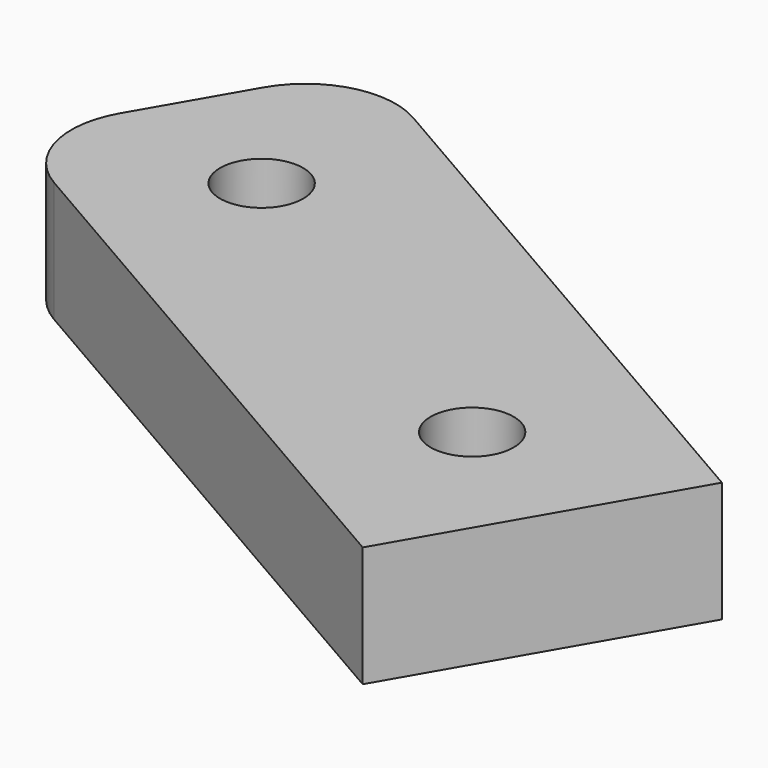
from build123d import *

# Parameters (mm, degrees)
CYLINDER063_R          = 1.38
CYLINDER063_DEPTH      = 10
CYLINDER062_R          = 1.38
CYLINDER062_DEPTH      = 10
BOX037_W               = 25
BOX037_H               = 10
BOX037_DEPTH           = 4
CUT035_PLACEMENT_ANGLE = 30
FILLET003_R            = 3


with BuildPart() as cylinder063:
    # Cylinder063 → Cylinder063 (new body)
    with BuildSketch(Plane(origin=(25, 52, 59), x_dir=(1, 0, 0), z_dir=(0, 0, 1))):
        Circle(CYLINDER063_R)
    extrude(amount=CYLINDER063_DEPTH)


with BuildPart() as cylinder062:
    # Cylinder062 → Cylinder062 (new body)
    with BuildSketch(Plane(origin=(40, 52, 59), x_dir=(1, 0, 0), z_dir=(0, 0, 1))):
        Circle(CYLINDER062_R)
    extrude(amount=CYLINDER062_DEPTH)


with BuildPart() as fillet003:
    # Box037 → Box037 (new body)
    with BuildSketch(Plane(origin=(45, 57, 62), x_dir=(-1, 0, 0), z_dir=(0, 0, 1))):
        with Locations((12.5, 5)):
            Rectangle(BOX037_W, BOX037_H)
    extrude(amount=BOX037_DEPTH)

    # Cut034: cut Cylinder062
    add(cylinder062.part, mode=Mode.SUBTRACT)

    # Cut035: cut Cylinder063
    add(cylinder063.part, mode=Mode.SUBTRACT)


with BuildPart() as fillet003_1:
    # Cut035 placement: moved
    add(fillet003.part.moved(Location((-20.65, 26.95, 0))).rotate(Axis((-20.65, 26.95, 0), (0, 0, -1)), CUT035_PLACEMENT_ANGLE))

    # Fillet003
    fillet003_edges = [fillet003_1.edges().sort_by_distance(p)[0] for p in [
        (25.170508, 66.313448, 64),
        (20.170508, 57.653194, 64),
    ]]
    fillet(fillet003_edges, radius=FILLET003_R)


with BuildPart() as fillet003_2:
    # Fillet003 placement: moved
    add(fillet003_1.part.moved(Location((-2, 129, 0))))


solid = fillet003_2.part
